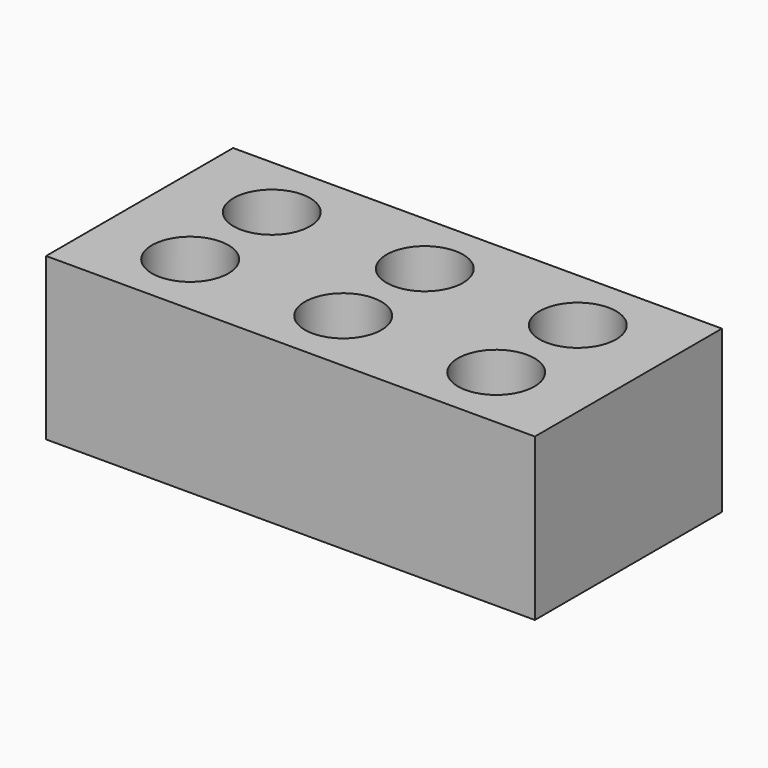
from build123d import *

# Parameters (mm, degrees)
CYLINDER001_R     = 18
CYLINDER001_DEPTH = 80
CYLINDER002_R     = 18
CYLINDER002_DEPTH = 80
CYLINDER003_R     = 18
CYLINDER003_DEPTH = 80
CYLINDER004_R     = 18
CYLINDER004_DEPTH = 80
CYLINDER005_R     = 18
CYLINDER005_DEPTH = 80
CYLINDER_R        = 18
CYLINDER_DEPTH    = 80
BOX_W             = 230
BOX_H             = 110
BOX_DEPTH         = 76


with BuildPart() as cilindre001:
    # Cylinder001 → Cylinder001 (new body)
    with BuildSketch(Plane(origin=(43, 79, -2), x_dir=(1, 0, 0), z_dir=(0, 0, 1))):
        Circle(CYLINDER001_R)
    extrude(amount=CYLINDER001_DEPTH)


with BuildPart() as cilindre002:
    # Cylinder002 → Cylinder002 (new body)
    with BuildSketch(Plane(origin=(187, 79, -2), x_dir=(1, 0, 0), z_dir=(0, 0, 1))):
        Circle(CYLINDER002_R)
    extrude(amount=CYLINDER002_DEPTH)


with BuildPart() as cilindre003:
    # Cylinder003 → Cylinder003 (new body)
    with BuildSketch(Plane(origin=(115, 31, -2), x_dir=(1, 0, 0), z_dir=(0, 0, 1))):
        Circle(CYLINDER003_R)
    extrude(amount=CYLINDER003_DEPTH)


with BuildPart() as cilindre004:
    # Cylinder004 → Cylinder004 (new body)
    with BuildSketch(Plane(origin=(115, 79, -2), x_dir=(1, 0, 0), z_dir=(0, 0, 1))):
        Circle(CYLINDER004_R)
    extrude(amount=CYLINDER004_DEPTH)


with BuildPart() as cilindre005:
    # Cylinder005 → Cylinder005 (new body)
    with BuildSketch(Plane(origin=(187, 31, -2), x_dir=(1, 0, 0), z_dir=(0, 0, 1))):
        Circle(CYLINDER005_R)
    extrude(amount=CYLINDER005_DEPTH)


with BuildPart() as fusion:
    # Cylinder → Cylinder (new body)
    with BuildSketch(Plane(origin=(43, 31, -2), x_dir=(1, 0, 0), z_dir=(0, 0, 1))):
        Circle(CYLINDER_R)
    extrude(amount=CYLINDER_DEPTH)

    # Fusion: union Cilindre001, Cilindre002, Cilindre003, Cilindre004, Cilindre005
    add(cilindre001.part)
    add(cilindre002.part)
    add(cilindre003.part)
    add(cilindre004.part)
    add(cilindre005.part)


with BuildPart() as brick:
    # Box → Box (new body)
    with BuildSketch(Plane.XY):
        with Locations((115, 55)):
            Rectangle(BOX_W, BOX_H)
    extrude(amount=BOX_DEPTH)

    # Cut: cut Fusion
    add(fusion.part, mode=Mode.SUBTRACT)


solid = brick.part
